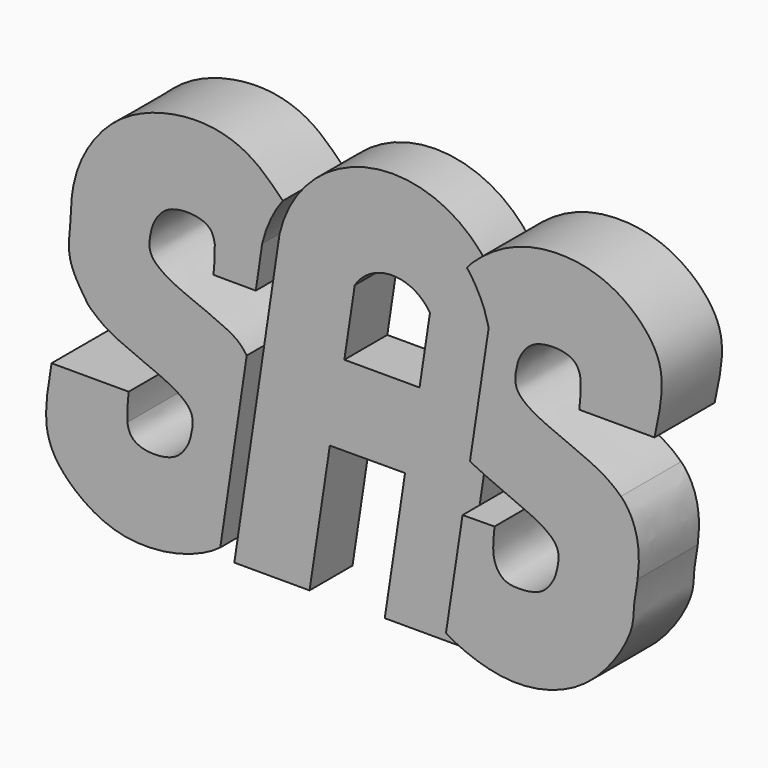
from build123d import *

# Parameters (mm, degrees)
F3_DEPTH = 5
F4_DEPTH = 7
F5_DEPTH = 7


with BuildPart() as f3:
    # F0 (on Front) → F3 (new body)
    with BuildSketch(Plane.XZ):
        with BuildLine():
            Line((11.2122112379, 28.3125324846), (6.9999989204, -0.003887688))
            Line((6.9999989204, -0.003887688), (13.9999989204, -0.003887688))
            Line((13.9999989204, -0.003887688), (15.8880344042, 12.4787572106))
            Line((15.8880344042, 12.4787572106), (22.8879924549, 12.5029912455))
            Line((22.8879924549, 12.5029912455), (20.9999989204, -0.003887688))
            Line((20.9999989204, -0.003887688), (27.9999989204, -0.003887688))
            Line((27.9999989204, -0.003887688), (32.2701971666, 28.2837369844))
            ThreePointArc((32.2701971666, 28.2837369844), (21.7526391673, 36.6604597903), (11.2122112379, 28.3125324846))
        make_face()
        with BuildLine():
            Line((24.2392167098, 19.9508205977), (17.2392167098, 19.9508205977))
            Line((17.2392167098, 19.9508205977), (18.2073064438, 26.3783241774))
            ThreePointArc((18.2073064438, 26.3783241774), (21.7073064438, 28.3189770721), (25.2073064438, 26.3783241774))
            Line((25.2073064438, 26.3783241774), (24.2392167098, 19.9508205977))
        make_face(mode=Mode.SUBTRACT)
    extrude(amount=F3_DEPTH)


with BuildPart() as f4:
    # F1 (on Front) → F4 (new body)
    with BuildSketch(Plane.XZ):
        with BuildLine():
            add(Edge.make_bspline(
                [(-6.6599815696, 24.2759825592), (-6.6061565064, 25.7220949595), (-6.4863727312, 28.9462347722), (-2.4977578924, 35.0722468726), (5.1808687263, 37.0140672644), (10.2150214978, 35.4276204541), (12.1755249809, 33.3973188604), (13.1163168699, 32.4456244707)],
                knots=[0, 0, 0, 0, 0.1812055492, 0.4042165334, 0.638222374, 0.8289952391, 1, 1, 1, 1], degree=3))
            add(Edge.make_bspline(
                [(-6.6599815696, 24.2759825592), (-6.782374854, 23.213841063), (-7.0311202854, 21.0552026541), (-5.7632557996, 19.1664123967), (-5.1192343235, 18.2069869194)],
                knots=[0, 0, 0, 0, 0.492042341, 1, 1, 1, 1], degree=3))
            add(Edge.make_bspline(
                [(-1.3573709875, 9.5905314094), (-1.2263524235, 8.7061990832), (-0.5024158287, 7.9497102787), (1.3048064984, 7.6859942695), (3.3524740944, 8.069839421), (4.3398051965, 9.5854586005), (4.5920459217, 10.4522758633), (4.9351412842, 12.2783841142), (3.4358207169, 13.5787067299), (1.4777022446, 14.5526211568), (-2.8915169094, 16.2288104057), (-4.1768306804, 17.2877126924), (-4.9745802013, 17.9500296757), (-5.1192343235, 18.2069869194)],
                knots=[0, 0, 0, 0, 0.0891719414, 0.1758875853, 0.2705170797, 0.3557760067, 0.4205370175, 0.5061284604, 0.5937609792, 0.6958025757, 0.8388997888, 0.9276642336, 1, 1, 1, 1], degree=3))
            add(Edge.make_bspline(
                [(-1.2337389512, 12.1379912796), (-1.2882114388, 11.5846401907), (-1.3402192541, 10.9462795863), (-1.3804244809, 10.2129696763), (-1.3573709875, 9.5905314094)],
                knots=[0, 0, 0, 0, 0.4849327242, 1, 1, 1, 1], degree=3))
            Line((-1.2337389512, 12.1379912796), (-8.4114907848, 12.1379912796))
            add(Edge.make_bspline(
                [(-8.4114907848, 12.1379912796), (-8.6924735771, 10.4873391148), (-9.2020693869, 7.4767358258), (-8.2597683385, 4.1854235086), (-4.6975559252, 0.9499932484), (0.174722876, -0.5523340249), (5.2226553008, 0.602676311), (7.2931549512, 2.1457294933)],
                knots=[0, 0, 0, 0, 0.1964978655, 0.3589328321, 0.5506962732, 0.7531431874, 1, 1, 1, 1], degree=3))
            Line((7.2931549512, 2.1457294933), (9.7529226914, 18.6736639589))
            add(Edge.make_bspline(
                [(6.7806504667, 26.8234424293), (6.6403814403, 27.7702123414), (5.9298529184, 28.4362038703), (4.1172538238, 28.7361985341), (2.0711144864, 28.3420870979), (1.0834026676, 26.8288823566), (0.8312986309, 25.9616215338), (0.4878892522, 24.1353828571), (1.9884493947, 22.8362485566), (3.9404576221, 21.8562153523), (8.4219899848, 20.1768119309), (9.3139520404, 19.3007670418), (9.7529226914, 18.6736639589)],
                knots=[0, 0, 0, 0, 0.095467856, 0.1883059894, 0.2896167246, 0.3808952908, 0.4502287016, 0.5418632609, 0.6356830045, 0.7449291674, 0.8981296462, 1, 1, 1, 1], degree=3))
            add(Edge.make_bspline(
                [(6.6570184304, 24.2759825592), (6.711490918, 24.8293336481), (6.7634987332, 25.4676942525), (6.80370396, 26.2010041624), (6.7806504667, 26.8234424293)],
                knots=[0, 0, 0, 0, 0.4849327242, 1, 1, 1, 1], degree=3))
            Line((6.6570184304, 24.2759825592), (10.5970697477, 24.2653992027))
            Line((10.5970697477, 24.2653992027), (11.1901527271, 28.3061861992))
            add(Edge.make_bspline(
                [(11.1901527271, 28.3061861992), (11.3847417426, 29.1364929683), (11.9234300988, 30.5987060232), (12.6628768915, 31.8682861898), (13.1163168699, 32.4456244707)],
                knots=[0, 0, 0, 0, 0.513299169, 1, 1, 1, 1], degree=3))
        make_face()
    extrude(amount=F4_DEPTH)


with BuildPart() as f5:
    # F2 (on Front) → F5 (new body)
    with BuildSketch(Plane.XZ):
        with BuildLine():
            Line((40.7070289281, 24.3034501637), (47.7070289281, 24.3034501637))
            add(Edge.make_bspline(
                [(47.7070289281, 24.3034501637), (48.0588512775, 25.9328191081), (48.7219935663, 28.9737790764), (47.7062392193, 32.2494612662), (44.2389948753, 35.5119613146), (39.2873114419, 36.8371475878), (33.8561527415, 35.8710554484), (30.8342708515, 33.2988147102), (30.2490498871, 32.5386859477)],
                knots=[0, 0, 0, 0, 0.1698627261, 0.3097954704, 0.4750977612, 0.6496093288, 0.8340443676, 1, 1, 1, 1], degree=3))
            add(Edge.make_bspline(
                [(32.2756581008, 28.2830372453), (32.0423555546, 29.236499996), (31.6083000986, 30.4551560803), (30.7202089166, 31.9451489298), (30.2490498871, 32.5386859477)],
                knots=[0, 0, 0, 0, 0.50019899, 1, 1, 1, 1], degree=3))
            Line((32.2756581008, 28.2830372453), (30.5293612182, 16.7514197528))
            add(Edge.make_bspline(
                [(30.5293612182, 16.7514197528), (30.7179905571, 16.6503390755), (31.2491175786, 16.3418175238), (35.6018795043, 14.5217056209), (37.4714878588, 13.6174146267), (38.9887318436, 12.3032058475), (38.6412005965, 10.4798483482), (38.3905840845, 9.614082998), (37.3994517702, 8.0902336596), (35.3666908063, 7.7420076867), (33.5532638013, 7.8762737947), (32.6658742269, 9.3628376072), (32.6883507297, 10.9705748359), (32.7896469957, 11.7680724832), (32.8162715465, 12.1654588842)],
                knots=[0, 0, 0, 0, 0.0563670855, 0.1929088194, 0.2902757507, 0.3738937038, 0.4555640856, 0.5173583058, 0.5987114046, 0.6890057923, 0.7717488738, 0.8504307425, 0.9304189068, 1, 1, 1, 1], degree=3))
            Line((32.8162715465, 12.1654588842), (29.8411697149, 12.1357198805))
            Line((29.8411697149, 12.1357198805), (28.3000655472, 1.9751281943))
            add(Edge.make_bspline(
                [(28.3399428197, 1.9506151357), (28.3266544762, 1.9587884304), (28.3133682934, 1.9669577735), (28.3000655472, 1.9751281943)],
                knots=[0.9957797989, 0.9957797989, 0.9957797989, 0.9957797989, 1, 1, 1, 1], degree=3))
            add(Edge.make_bspline(
                [(46.1332715465, 12.1654588842), (45.9932699339, 11.3667022607), (45.7179821557, 9.7964122521), (45.8345614588, 7.5065066252), (41.8473829749, 1.2294949823), (34.4854407651, -0.7123590527), (29.5194253321, 1.2213504858), (28.6276431409, 1.7736585781), (28.3399428197, 1.9506151357)],
                knots=[0, 0, 0, 0, 0.1301848674, 0.2563418588, 0.4794487055, 0.713555135, 0.9044100049, 0.9957797989, 0.9957797989, 0.9957797989, 0.9957797989], degree=3))
            add(Edge.make_bspline(
                [(46.1332715465, 12.1654588842), (46.2537889802, 13.2113215559), (46.3976538225, 15.2742330204), (45.434245385, 17.6620311683), (44.5760017066, 18.4580917618)],
                knots=[0, 0, 0, 0, 0.4845010945, 1, 1, 1, 1], degree=3))
            add(Edge.make_bspline(
                [(40.8306609644, 26.8509100339), (40.6990210117, 27.7394365297), (39.9759836544, 28.4898464564), (38.1684066427, 28.7559986815), (36.1208167951, 28.3714668164), (35.1335391231, 26.8560005895), (34.881063841, 25.9891820202), (34.5390921594, 24.1629312021), (36.0336343485, 22.8632566597), (38.0154398125, 21.8861146009), (42.27253222, 20.2259216093), (43.8057266716, 19.1468495988), (44.2334094452, 18.7890354728), (44.5760017066, 18.4580917618)],
                knots=[0, 0, 0, 0, 0.0895948619, 0.1767217766, 0.2718000754, 0.3574633643, 0.4225315205, 0.5085289026, 0.5965770407, 0.6991025953, 0.8428784831, 0.9318426312, 1, 1, 1, 1], degree=3))
            add(Edge.make_bspline(
                [(40.7070289281, 24.3034501637), (40.7591645885, 24.7922701366), (40.8574963761, 25.7142214714), (40.8392384914, 26.4875850011), (40.8306609644, 26.8509100339)],
                knots=[0, 0, 0, 0, 0.5302014916, 1, 1, 1, 1], degree=3))
        make_face()
    extrude(amount=F5_DEPTH)


solid = Compound([f3.part, f4.part, f5.part])
